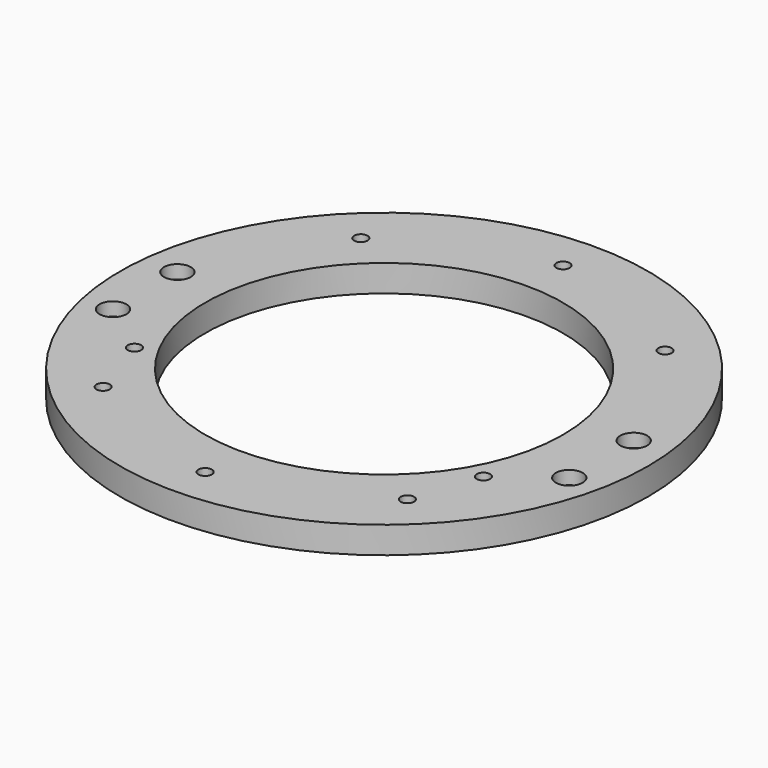
from build123d import *

# Parameters (mm, degrees)
CYLINDER531_R     = 1.5
CYLINDER531_DEPTH = 100
CYLINDER530_R     = 1.5
CYLINDER530_DEPTH = 100
CYLINDER368_R     = 1.5
CYLINDER368_DEPTH = 50
CYLINDER369_R     = 3
CYLINDER369_DEPTH = 4
CYLINDER366_R     = 1.5
CYLINDER366_DEPTH = 50
CYLINDER358_R     = 1.5
CYLINDER358_DEPTH = 50
CYLINDER357_R     = 1.5
CYLINDER357_DEPTH = 50
CYLINDER361_R     = 3
CYLINDER361_DEPTH = 4
CYLINDER362_R     = 3
CYLINDER362_DEPTH = 4
CYLINDER332_R     = 3
CYLINDER332_DEPTH = 4
CYLINDER333_R     = 3
CYLINDER333_DEPTH = 4
CYLINDER352_R     = 3
CYLINDER352_DEPTH = 4
CYLINDER351_R     = 3
CYLINDER351_DEPTH = 4
CYLINDER344_R     = 1.5
CYLINDER344_DEPTH = 50
CYLINDER343_R     = 1.5
CYLINDER343_DEPTH = 50
CYLINDER340_R     = 1.5
CYLINDER340_DEPTH = 50
CYLINDER339_R     = 1.5
CYLINDER339_DEPTH = 50
CYLINDER338_R     = 1.5
CYLINDER338_DEPTH = 100
CYLINDER337_R     = 1.5
CYLINDER337_DEPTH = 100
CYLINDER301_R     = 1.5
CYLINDER301_DEPTH = 50
CYLINDER302_R     = 1.5
CYLINDER302_DEPTH = 50
TUBE018_R         = 59
TUBE018_R_2       = 40
TUBE018_DEPTH     = 6


with BuildPart() as obj1:
    # Cylinder531 → Cylinder531 (new body)
    with BuildSketch(Plane(origin=(39, -21, 0), x_dir=(1, 0, 0), z_dir=(0, 0, 1))):
        Circle(CYLINDER531_R)
    extrude(amount=CYLINDER531_DEPTH)


with BuildPart() as compound308:
    # Cylinder530 → Cylinder530 (new body)
    with BuildSketch(Plane(origin=(-39, -21, 0), x_dir=(1, 0, 0), z_dir=(0, 0, 1))):
        Circle(CYLINDER530_R)
    extrude(amount=CYLINDER530_DEPTH)

    # Compound308: union obj1
    add(obj1.part)


with BuildPart() as obj2:
    # Cylinder368 → Cylinder368 (new body)
    with BuildSketch(Plane(origin=(0, -50, 0), x_dir=(1, 0, 0), z_dir=(0, 0, 1))):
        Circle(CYLINDER368_R)
    extrude(amount=CYLINDER368_DEPTH)


with BuildPart() as obj3:
    # Cylinder369 → Cylinder369 (new body)
    with BuildSketch(Plane(origin=(0, -50, 9), x_dir=(1, 0, 0), z_dir=(0, 0, 1))):
        Circle(CYLINDER369_R)
    extrude(amount=CYLINDER369_DEPTH)


with BuildPart() as obj4:
    # Cylinder366 → Cylinder366 (new body)
    with BuildSketch(Plane(origin=(0, 50, 0), x_dir=(1, 0, 0), z_dir=(0, 0, 1))):
        Circle(CYLINDER366_R)
    extrude(amount=CYLINDER366_DEPTH)


with BuildPart() as obj5:
    # Cylinder358 → Cylinder358 (new body)
    with BuildSketch(Plane(origin=(-34, -36, 0), x_dir=(1, 0, 0), z_dir=(0, 0, 1))):
        Circle(CYLINDER358_R)
    extrude(amount=CYLINDER358_DEPTH)


with BuildPart() as compound306:
    # Cylinder357 → Cylinder357 (new body)
    with BuildSketch(Plane(origin=(34, -36, 0), x_dir=(1, 0, 0), z_dir=(0, 0, 1))):
        Circle(CYLINDER357_R)
    extrude(amount=CYLINDER357_DEPTH)

    # Compound306: union obj5
    add(obj5.part)


with BuildPart() as obj6:
    # Cylinder361 → Cylinder361 (new body)
    with BuildSketch(Plane(origin=(-34, -36, 0), x_dir=(1, 0, 0), z_dir=(0, 0, 1))):
        Circle(CYLINDER361_R)
    extrude(amount=CYLINDER361_DEPTH)


with BuildPart() as compound307:
    # Cylinder362 → Cylinder362 (new body)
    with BuildSketch(Plane(origin=(34, -36, 0), x_dir=(1, 0, 0), z_dir=(0, 0, 1))):
        Circle(CYLINDER362_R)
    extrude(amount=CYLINDER362_DEPTH)

    # Compound307: union obj6
    add(obj6.part)


with BuildPart() as compound307_1:
    # Compound307 placement: moved
    add(compound307.part.moved(Location((0, 0, 9))))


with BuildPart() as obj7:
    # Cylinder332 → Cylinder332 (new body)
    with BuildSketch(Plane(origin=(-51, 6, 17), x_dir=(1, 0, 0), z_dir=(0, 0, 1))):
        Circle(CYLINDER332_R)
    extrude(amount=CYLINDER332_DEPTH)


with BuildPart() as compound300:
    # Cylinder333 → Cylinder333 (new body)
    with BuildSketch(Plane(origin=(51, 6, 17), x_dir=(1, 0, 0), z_dir=(0, 0, 1))):
        Circle(CYLINDER333_R)
    extrude(amount=CYLINDER333_DEPTH)

    # Compound300: union obj7
    add(obj7.part)


with BuildPart() as compound300_1:
    # Compound300 placement: moved
    add(compound300.part.moved(Location((0, 0, -2))))


with BuildPart() as obj8:
    # Cylinder352 → Cylinder352 (new body)
    with BuildSketch(Plane(origin=(51, -12, 0), x_dir=(1, 0, 0), z_dir=(0, 0, 1))):
        Circle(CYLINDER352_R)
    extrude(amount=CYLINDER352_DEPTH)


with BuildPart() as compound303:
    # Cylinder351 → Cylinder351 (new body)
    with BuildSketch(Plane(origin=(-51, -12, 0), x_dir=(1, 0, 0), z_dir=(0, 0, 1))):
        Circle(CYLINDER351_R)
    extrude(amount=CYLINDER351_DEPTH)

    # Compound303: union obj8
    add(obj8.part)


with BuildPart() as compound303_1:
    # Compound303 placement: moved
    add(compound303.part.moved(Location((0, 0, 15))))


with BuildPart() as obj9:
    # Cylinder344 → Cylinder344 (new body)
    with BuildSketch(Plane(origin=(-34, 36, 0), x_dir=(1, 0, 0), z_dir=(0, 0, 1))):
        Circle(CYLINDER344_R)
    extrude(amount=CYLINDER344_DEPTH)


with BuildPart() as obj10:
    # Cylinder343 → Cylinder343 (new body)
    with BuildSketch(Plane(origin=(34, 36, 0), x_dir=(1, 0, 0), z_dir=(0, 0, 1))):
        Circle(CYLINDER343_R)
    extrude(amount=CYLINDER343_DEPTH)


with BuildPart() as obj11:
    # Cylinder340 → Cylinder340 (new body)
    with BuildSketch(Plane(origin=(51, 6, 0), x_dir=(1, 0, 0), z_dir=(0, 0, 1))):
        Circle(CYLINDER340_R)
    extrude(amount=CYLINDER340_DEPTH)


with BuildPart() as obj12:
    # Cylinder339 → Cylinder339 (new body)
    with BuildSketch(Plane(origin=(-51, 6, 0), x_dir=(1, 0, 0), z_dir=(0, 0, 1))):
        Circle(CYLINDER339_R)
    extrude(amount=CYLINDER339_DEPTH)


with BuildPart() as obj13:
    # Cylinder338 → Cylinder338 (new body)
    with BuildSketch(Plane(origin=(51, -12, 0), x_dir=(1, 0, 0), z_dir=(0, 0, 1))):
        Circle(CYLINDER338_R)
    extrude(amount=CYLINDER338_DEPTH)


with BuildPart() as compound301:
    # Cylinder337 → Cylinder337 (new body)
    with BuildSketch(Plane(origin=(-51, -12, 0), x_dir=(1, 0, 0), z_dir=(0, 0, 1))):
        Circle(CYLINDER337_R)
    extrude(amount=CYLINDER337_DEPTH)

    # Compound301: union obj9, obj10, obj11, obj12, obj13
    add(obj9.part)
    add(obj10.part)
    add(obj11.part)
    add(obj12.part)
    add(obj13.part)


with BuildPart() as obj14:
    # Cylinder301 → Cylinder301 (new body)
    with BuildSketch(Plane(origin=(34, 36, 0), x_dir=(1, 0, 0), z_dir=(0, 0, 1))):
        Circle(CYLINDER301_R)
    extrude(amount=CYLINDER301_DEPTH)


with BuildPart() as compound285:
    # Cylinder302 → Cylinder302 (new body)
    with BuildSketch(Plane(origin=(-34, 36, 0), x_dir=(1, 0, 0), z_dir=(0, 0, 1))):
        Circle(CYLINDER302_R)
    extrude(amount=CYLINDER302_DEPTH)

    # Compound285: union obj14
    add(obj14.part)


with BuildPart() as cut:
    # Tube018 → Tube018 (new body)
    with BuildSketch(Plane.XY.offset(12)):
        Circle(TUBE018_R)
        Circle(TUBE018_R_2, mode=Mode.SUBTRACT)
    extrude(amount=TUBE018_DEPTH)

    # Cut133: cut Compound285
    add(compound285.part, mode=Mode.SUBTRACT)

    # Cut145: cut Compound301
    add(compound301.part, mode=Mode.SUBTRACT)

    # Cut146: cut Compound303
    add(compound303_1.part, mode=Mode.SUBTRACT)

    # Cut147: cut Compound300
    add(compound300_1.part, mode=Mode.SUBTRACT)

    # Cut151: cut Compound307
    add(compound307_1.part, mode=Mode.SUBTRACT)

    # Cut152: cut Compound306
    add(compound306.part, mode=Mode.SUBTRACT)

    # Cut156: cut obj4
    add(obj4.part, mode=Mode.SUBTRACT)

    # Cut158: cut obj3
    add(obj3.part, mode=Mode.SUBTRACT)

    # Cut159: cut obj2
    add(obj2.part, mode=Mode.SUBTRACT)

    # Cut: cut Compound308
    add(compound308.part, mode=Mode.SUBTRACT)


solid = cut.part
